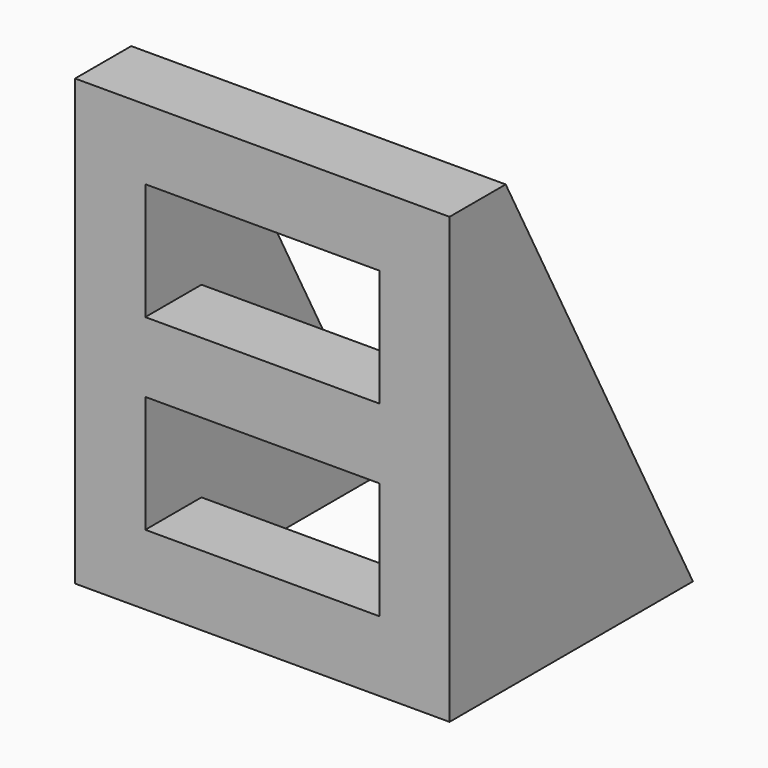
from build123d import *

# Parameters (mm, degrees)
F0_W     = 10
F0_H     = 5
F1_DEPTH = 3
F3_DEPTH = 8
F4_DEPTH = 5


with BuildPart() as f1:
    # F0 (on Front) → F1 (new body)
    with BuildSketch(Plane.XZ):
        Polygon((8, -5.5), (8, 5.5), (-8, 5.5), (-8, -5.5), (-8, -13.5), (8, -13.5), align=None)
        with Locations((0, -8)):
            Rectangle(F0_W, F0_H, mode=Mode.SUBTRACT)
        Rectangle(F0_W, F0_H, mode=Mode.SUBTRACT)
    extrude(amount=F1_DEPTH)

    # F2 (on Right) → F3 (join, symmetric)
    with BuildSketch(Plane.YZ):
        Polygon((10, -13.5), (0, 5.5), (0, -13.5), align=None)
    extrude(amount=F3_DEPTH, both=True)

    # F2 (on Right) → F4 (cut, symmetric)
    with BuildSketch(Plane.YZ):
        Polygon((10, -13.5), (0, 5.5), (0, -13.5), align=None)
    extrude(amount=F4_DEPTH, both=True, mode=Mode.SUBTRACT)


solid = f1.part
